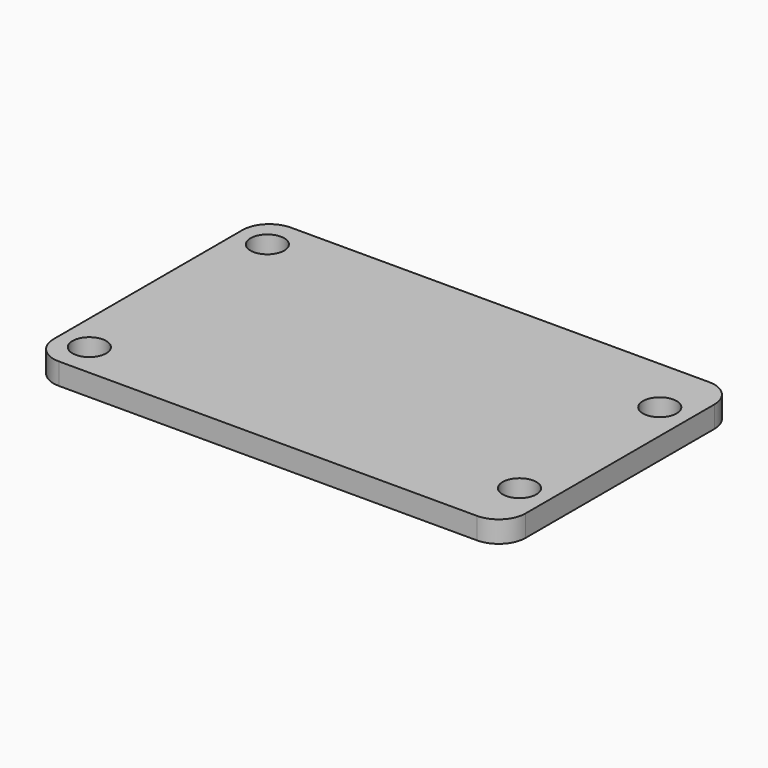
from build123d import *

# Parameters (mm, degrees)
F0_W     = 35
F0_H     = 21.5
F0_R     = 1.25
F1_DEPTH = 1.6
F2_R     = 2


with BuildPart() as f1:
    # F0 (on Top) → F1 (new body)
    with BuildSketch(Plane.XY):
        Rectangle(F0_W, F0_H)
        with Locations((-15.25, -8.25)):
            Circle(F0_R, mode=Mode.SUBTRACT)
        with Locations((15.25, -6.5)):
            Circle(F0_R, mode=Mode.SUBTRACT)
        with Locations((-15.25, 8.25)):
            Circle(F0_R, mode=Mode.SUBTRACT)
        with Locations((15.25, 6.5)):
            Circle(F0_R, mode=Mode.SUBTRACT)
    extrude(amount=F1_DEPTH)

    # F2
    f2_edges = [f1.edges().sort_by_distance(p)[0] for p in [
        (-17.5, -10.75, 0.8),
        (17.5, -10.75, 0.8),
        (17.5, 10.75, 0.8),
        (-17.5, 10.75, 0.8),
    ]]
    fillet(f2_edges, radius=F2_R)


solid = f1.part
